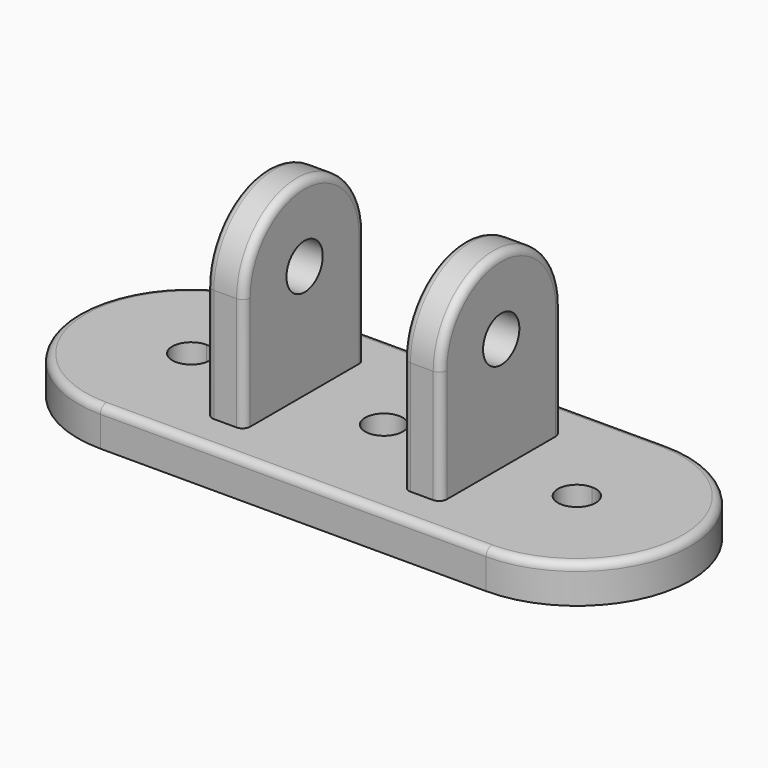
from build123d import *

# Parameters (mm, degrees)
F0_R      = 2.5
F1_DEPTH  = 5
F2_W      = 5
F2_H      = 20
F3_DEPTH  = 15
F4_DEPTH  = 15
F5_R      = 10
F5_R_2    = 3
F6_DEPTH  = 5
F7_DEPTH  = 5
F8_R      = 10
F8_R_2    = 3
F9_DEPTH  = 5
F10_DEPTH = 5
F11_R     = 1
F12_R     = 1


with BuildPart() as f1:
    # F0 (on Top) → F1 (new body)
    with BuildSketch(Plane.XY):
        with BuildLine():
            ThreePointArc((-10.5, 0), (-14.8933982822, -10.6066017178), (-25.5, -15))
            Line((-25.5, -15), (25.5, -15))
            ThreePointArc((25.5, -15), (10.5, 0), (25.5, 15))
            Line((25.5, 15), (-25.5, 15))
            ThreePointArc((-25.5, 15), (-14.8933982822, 10.6066017178), (-10.5, 0))
        make_face()
        Circle(F0_R, mode=Mode.SUBTRACT)
        with BuildLine():
            ThreePointArc((-25.5, 15), (-40.5, 0), (-25.5, -15))
            Line((-25.5, -15), (-25.5, -2.5))
            ThreePointArc((-25.5, -2.5), (-28, 0), (-25.5, 2.5))
            Line((-25.5, 2.5), (-25.5, 15))
        make_face()
        with BuildLine():
            Line((-25.5, -2.5), (-25.5, -15))
            ThreePointArc((-25.5, -15), (-14.8933982822, -10.6066017178), (-10.5, 0))
            ThreePointArc((-10.5, 0), (-14.8933982822, 10.6066017178), (-25.5, 15))
            Line((-25.5, 15), (-25.5, 2.5))
            ThreePointArc((-25.5, 2.5), (-23.732233047, 1.767766953), (-23, 0))
            ThreePointArc((-23, 0), (-23.732233047, -1.767766953), (-25.5, -2.5))
        make_face()
        with BuildLine():
            ThreePointArc((25.5, 15), (10.5, 0), (25.5, -15))
            Line((25.5, -15), (25.5, -2.5))
            ThreePointArc((25.5, -2.5), (23, 0), (25.5, 2.5))
            Line((25.5, 2.5), (25.5, 15))
        make_face()
        with BuildLine():
            Line((25.5, -2.5), (25.5, -15))
            ThreePointArc((25.5, -15), (36.1066017178, -10.6066017178), (40.5, 0))
            ThreePointArc((40.5, 0), (36.1066017178, 10.6066017178), (25.5, 15))
            Line((25.5, 15), (25.5, 2.5))
            ThreePointArc((25.5, 2.5), (27.267766953, 1.767766953), (28, 0))
            ThreePointArc((28, 0), (27.267766953, -1.767766953), (25.5, -2.5))
        make_face()
    extrude(amount=F1_DEPTH)

    # F2 (on face) → F3 (join)
    with BuildSketch(Plane.XY.offset(5)):
        with Locations((13, 0)):
            Rectangle(F2_W, F2_H)
    extrude(amount=F3_DEPTH)

    # F2 (on face) → F4 (join)
    with BuildSketch(Plane.XY.offset(5)):
        with Locations((-13, 0)):
            Rectangle(F2_W, F2_H)
    extrude(amount=F4_DEPTH)

    # F5 (on face) → F6 (join)
    with BuildSketch(Plane.YZ.offset(-10.5)):
        with Locations((0, 20)):
            Circle(F5_R)
        with Locations((0, 20)):
            Circle(F5_R_2, mode=Mode.SUBTRACT)
    extrude(amount=-F6_DEPTH)

    # F5 (on face) → F7 (cut)
    with BuildSketch(Plane.YZ.offset(-10.5)):
        with BuildLine():
            ThreePointArc((-3, 20), (0, 17), (3, 20))
            Line((3, 20), (-3, 20))
        make_face()
    extrude(amount=-F7_DEPTH, mode=Mode.SUBTRACT)

    # F8 (on face) → F9 (join)
    with BuildSketch(Plane.YZ.offset(15.5)):
        with Locations((0, 20)):
            Circle(F8_R)
        with Locations((0, 20)):
            Circle(F8_R_2, mode=Mode.SUBTRACT)
    extrude(amount=-F9_DEPTH)

    # F8 (on face) → F10 (cut)
    with BuildSketch(Plane.YZ.offset(15.5)):
        with BuildLine():
            ThreePointArc((-3, 20), (0, 17), (3, 20))
            Line((3, 20), (-3, 20))
        make_face()
    extrude(amount=-F10_DEPTH, mode=Mode.SUBTRACT)

    # F11
    f11_edges = [f1.edges().sort_by_distance(p)[0] for p in [
        (-10.5, -10, 12.5),
        (15.5, -10, 12.5),
        (-15.5, -10, 12.5),
        (10.5, -10, 12.5),
    ]]
    fillet(f11_edges, radius=F11_R)

    # F12
    f12_edges = [f1.edges().sort_by_distance(p)[0] for p in [
        (0, -15, 5),
    ]]
    fillet(f12_edges, radius=F12_R)


solid = f1.part
